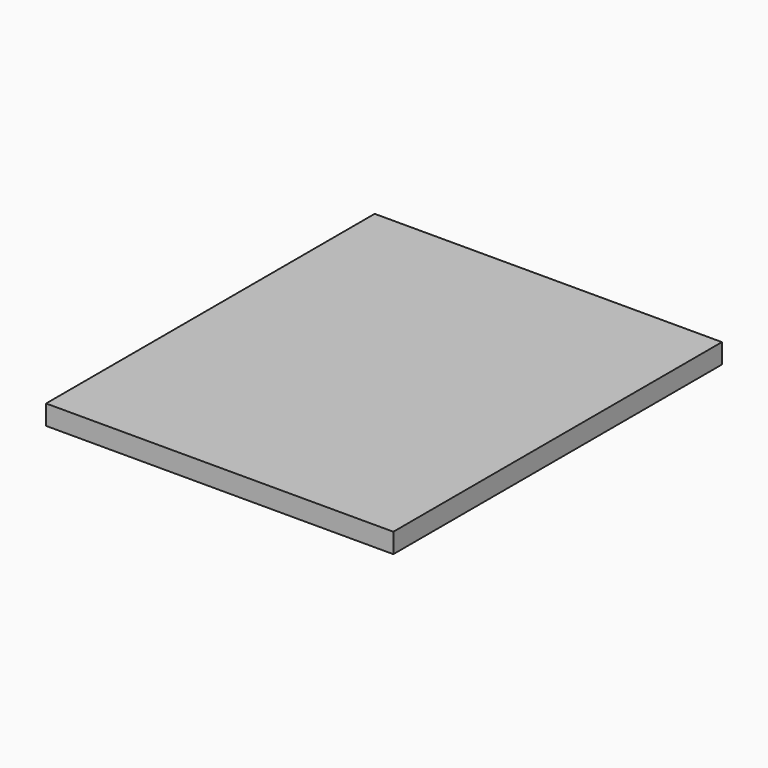
from build123d import *

# Parameters (mm, degrees)
F0_W     = 87.82696
F0_H     = 82.922908
F0_H_2   = 20.953638
F1_DEPTH = 5


with BuildPart() as f1:
    # F0 (on Top) → F1 (new body)
    with BuildSketch(Plane.XY):
        with Locations((0, 10.476819)):
            Rectangle(F0_W, F0_H)
        with Locations((0, -41.461454)):
            Rectangle(F0_W, F0_H_2)
    extrude(amount=-F1_DEPTH)


solid = f1.part
